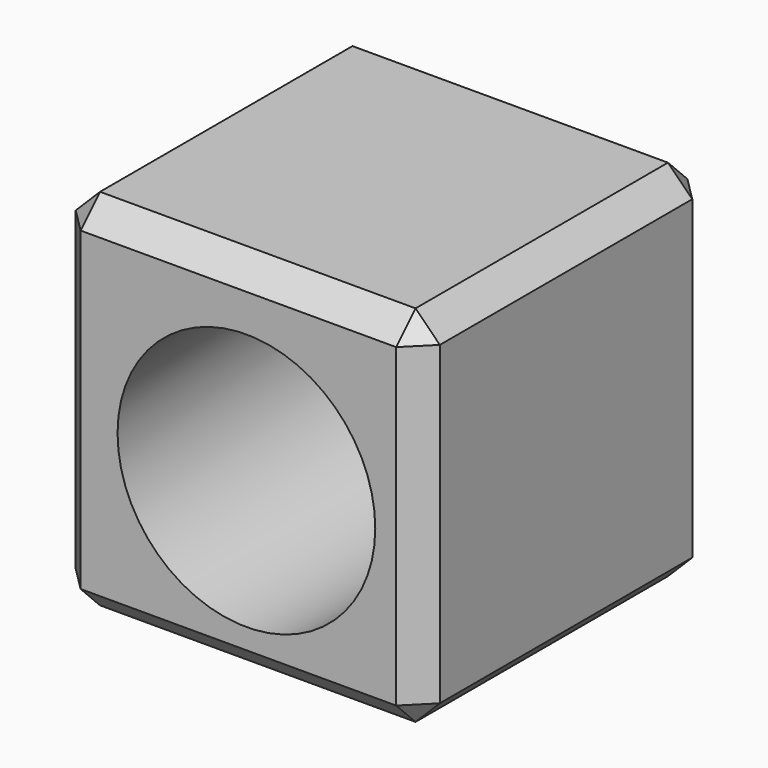
from build123d import *

# Parameters (mm, degrees)
F0_W     = 76.2
F0_H     = 76.2
F1_DEPTH = 76.2
F2_R     = 26.969245
F3_DEPTH = 76.201
F4_SIZE  = 5.08


with BuildPart() as f1:
    # F0 (on Front) → F1 (new body)
    with BuildSketch(Plane.XZ):
        with Locations((0.212106, -0.679574)):
            Rectangle(F0_W, F0_H)
    extrude(amount=F1_DEPTH)

    # F2 (on face) → F3 (cut, through all)
    with BuildSketch(Plane(origin=(0, 0, 0), x_dir=(-1, 0, 0), z_dir=(0, 1, 0))):
        with Locations((-1.895509, -2.46492)):
            Circle(F2_R)
    extrude(amount=-F3_DEPTH, mode=Mode.SUBTRACT)

    # F4
    f4_edges = [f1.edges().sort_by_distance(p)[0] for p in [
        (-37.887894, -38.1, 37.420426),
        (-37.887894, -38.1, -38.779574),
        (-37.887894, 0, -0.679574),
        (-37.887894, -76.2, -0.679574),
        (38.312106, -38.1, -38.779574),
        (0.212106, 0, -38.779574),
        (0.212106, -76.2, -38.779574),
        (38.312106, -38.1, 37.420426),
        (38.312106, 0, -0.679574),
        (38.312106, -76.2, -0.679574),
        (0.212106, 0, 37.420426),
        (0.212106, -76.2, 37.420426),
    ]]
    chamfer(f4_edges, length=F4_SIZE)


solid = f1.part
